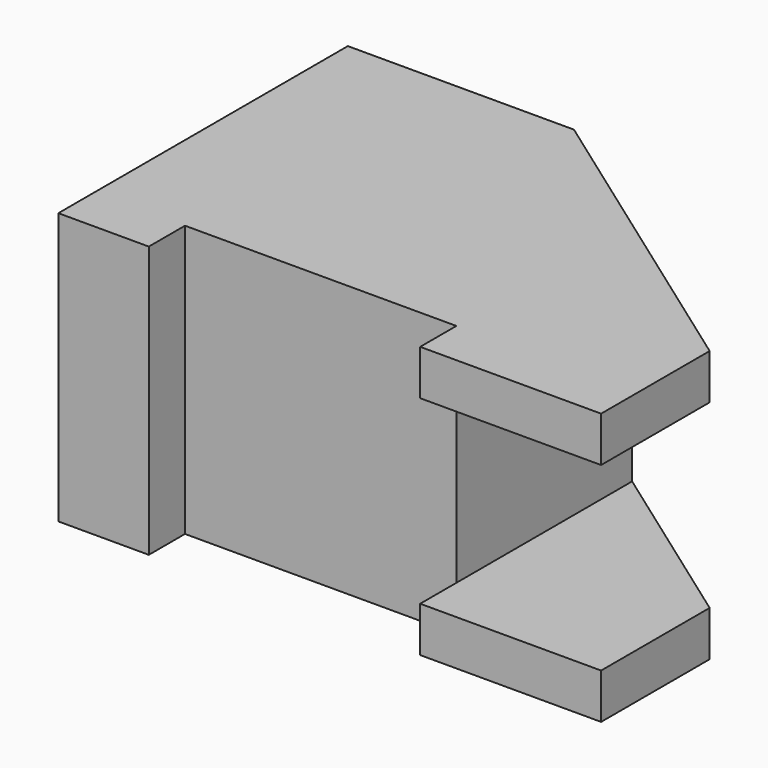
from build123d import *

# Parameters (mm, degrees)
F1_DEPTH = 2.5
F3_DEPTH = 10
F5_DEPTH = 2.5


with BuildPart() as f1:
    # F0 (on Top) → F1 (new body)
    with BuildSketch(Plane.XY):
        Polygon((0, 20), (0, 0), (5, 0), (5, 2.5), (20, 2.5), (20, 0), (30, 0), (30, 7.5), (12.5, 20), align=None)
    extrude(amount=F1_DEPTH)

    # F2 (on face) → F3 (join)
    with BuildSketch(Plane.XY.offset(2.5)):
        Polygon((0, 20), (0, 0), (5, 0), (5, 2.5), (20, 2.5), (20, 14.642857), (12.5, 20), align=None)
    extrude(amount=F3_DEPTH)

    # F4 (on face) → F5 (join)
    with BuildSketch(Plane.XY.offset(12.5)):
        Polygon((0, 20), (0, 0), (5, 0), (5, 2.5), (20, 2.5), (20, 0), (30, 0), (30, 7.5), (12.5, 20), align=None)
    extrude(amount=F5_DEPTH)


solid = f1.part
